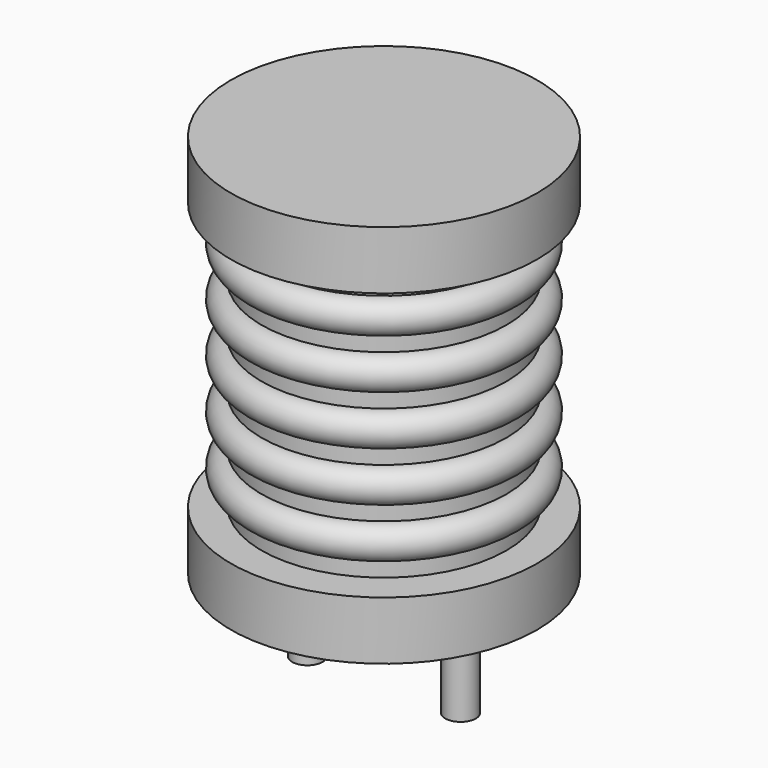
from build123d import *

# Parameters (mm, degrees)
SKETCH001_R  = 0.5
PAD001_DEPTH = 3.5


with BuildPart() as revolution:
    # Sketch → Revolution (revolve)
    with BuildSketch(Plane(origin=(2.5, 0, 0), x_dir=(1, 0, 0), z_dir=(0, -1, 0))):
        Polygon((0, 0.05), (1.5, 0.05), (1.5, 0.2), (5, 0.2), (5, 2.105), (1, 2.105), (1, 10.845), (5, 10.845), (5, 12.75), (0, 12.75), align=None)
    revolve(axis=Axis((2.5, 0, 0), (0, 0, 1)))


with BuildPart() as pad001:
    # Sketch001 → Pad001 (new body)
    with BuildSketch(Plane.XY.offset(0.5)):
        Circle(SKETCH001_R)
        with Locations((5, 0)):
            Circle(SKETCH001_R)
    extrude(amount=-PAD001_DEPTH)


with BuildPart() as obj1:
    # Sketch002 → Revolution001 (revolve)
    with BuildSketch(Plane(origin=(2.5, 0, 0), x_dir=(1, 0, 0), z_dir=(0, -1, 0))):
        with BuildLine():
            Line((4, 2.155), (1, 2.155))
            Line((1, 2.155), (1, 10.795))
            Line((1, 10.795), (4, 10.795))
            Line((4, 10.795), (4, 10.255))
            ThreePointArc((4, 9.175), (4.54, 9.715), (4, 10.255))
            Line((4, 9.175), (4, 8.635))
            ThreePointArc((4, 7.555), (4.54, 8.095), (4, 8.635))
            Line((4, 7.555), (4, 7.015))
            ThreePointArc((4, 5.935), (4.54, 6.475), (4, 7.015))
            Line((4, 5.935), (4, 5.395))
            ThreePointArc((4, 4.315), (4.54, 4.855), (4, 5.395))
            Line((4, 4.315), (4, 3.775))
            ThreePointArc((4, 2.695), (4.54, 3.235), (4, 3.775))
            Line((4, 2.155), (4, 2.695))
        make_face()
    revolve(axis=Axis((2.5, 0, 0), (0, 0, 1)))

    add(revolution.part)
    add(pad001.part)


solid = obj1.part
